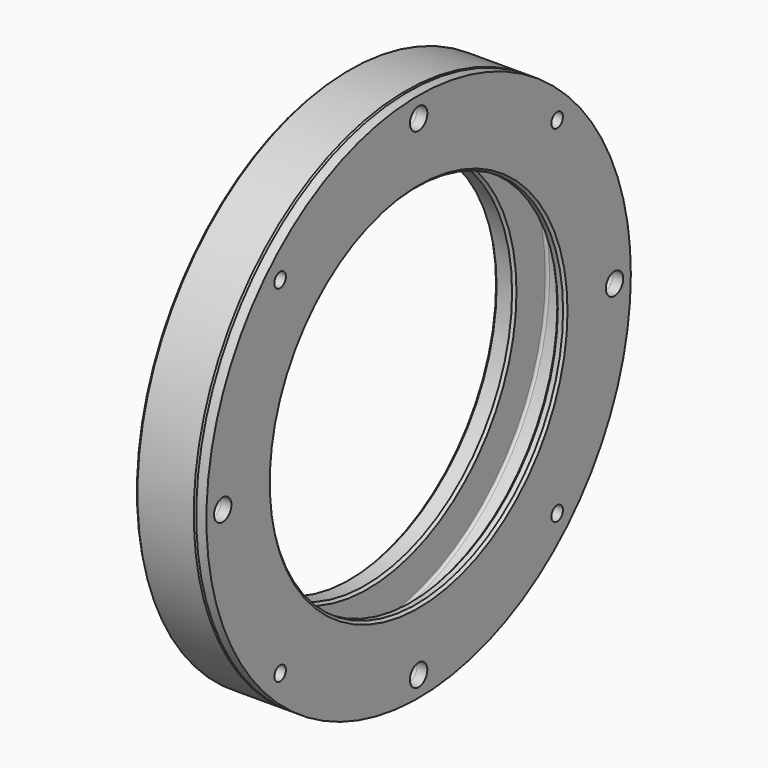
from build123d import *

# Parameters (mm, degrees)
F0_R      = 82.55
F0_R_2    = 57.15
F1_DEPTH  = 19.05
F2_R      = 69.85
F3_DEPTH  = 12.7
F5_D      = 6.7564
F7_D      = 3.4544
F7_DEPTH  = 15.08125
F7_TIP    = 1.0378064612
F8_SIZE   = 0.762
F9_R      = 0.762
F4_R      = 82.55
F4_R_2    = 69.85
F11_DEPTH = 3.175
F10_R     = 69.85
F10_R_2   = 57.15
F14_D     = 4.4958
F15_SIZE  = 0.762
F17_D     = 6.7564


with BuildPart() as f1:
    # F0 (on Right) → F1 (new body)
    with BuildSketch(Plane.YZ):
        Circle(F0_R)
        Circle(F0_R_2, mode=Mode.SUBTRACT)
    extrude(amount=F1_DEPTH)

    # F2 (on face) → F3 (cut)
    with BuildSketch(Plane.YZ.offset(19.05)):
        Circle(F2_R)
    extrude(amount=-F3_DEPTH, mode=Mode.SUBTRACT)

    # F5 (through all)
    with Locations(Plane.YZ.offset(19.05)):
        with Locations((0, 76.2), (76.2, 0), (0, -76.2), (-76.2, 0)):
            Hole(F5_D / 2)

    # F7
    with Locations(Plane.YZ.offset(19.05)):
        with Locations((-53.8815367264, 53.8815367264), (53.8815367264, 53.8815367264), (-53.8815367264, -53.8815367264), (53.8815367264, -53.8815367264)):
            Hole(F7_D / 2, depth=F7_DEPTH)
            with Locations((0, 0, -(F7_DEPTH + F7_TIP / 2))):  # 118° drill point
                Cone(0, F7_D / 2, F7_TIP, mode=Mode.SUBTRACT)

    # F8
    f8_edges = [f1.edges().sort_by_distance(p)[0] for p in [
        (19.05, -69.85, 0),
        (19.05, -82.55, 0),
        (0, -82.55, 0),
        (6.35, -57.15, 0),
        (0, -57.15, 0),
    ]]
    chamfer(f8_edges, length=F8_SIZE)

    # F9
    f9_edges = [f1.edges().sort_by_distance(p)[0] for p in [
        (6.35, -69.85, 0),
    ]]
    fillet(f9_edges, radius=F9_R)


with BuildPart() as f11:
    # F4 (on face) → F11 (new body)
    with BuildSketch(Plane.YZ.offset(19.05)):
        Circle(F4_R)
        Circle(F4_R_2, mode=Mode.SUBTRACT)
    extrude(amount=F11_DEPTH)


with BuildPart() as f11b:
    # F10 (on face) → F11, piece 2 (new body)
    with BuildSketch(Plane.YZ.offset(19.05)):
        Circle(F10_R)
        Circle(F10_R_2, mode=Mode.SUBTRACT)
    extrude(amount=F11_DEPTH)

    # F12: union F11
    add(f11.part)

    # F14 (through all)
    with Locations(Plane.YZ.offset(22.225)):
        with Locations((-53.8815367264, 53.8815367264), (53.8815367264, 53.8815367264), (-53.8815367264, -53.8815367264), (53.8815367264, -53.8815367264)):
            Hole(F14_D / 2)

    # F15
    f15_edges = [f11b.edges().sort_by_distance(p)[0] for p in [
        (22.225, -57.15, 0),
        (19.05, -57.15, 0),
    ]]
    chamfer(f15_edges, length=F15_SIZE)

    # F17 (through all)
    with Locations(Plane.YZ.offset(22.225)):
        with Locations((0, 76.2), (-76.2, 0), (0, -76.2), (76.2, 0)):
            Hole(F17_D / 2)


solid = Compound([f1.part, f11b.part])
